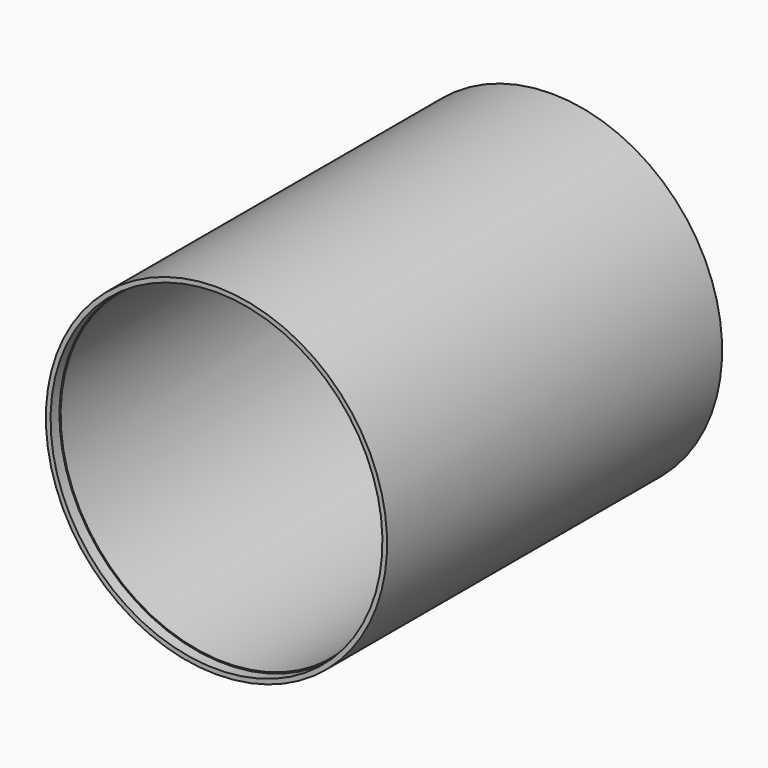
from build123d import *

# Parameters (mm, degrees)
F5_DEPTH = 25.4


with BuildPart() as f1:
    # F0 (on Right) → F1 (revolve)
    with BuildSketch(Plane.YZ):
        Polygon((149.225, 121.5898), (-149.225, 121.5898), (-149.225, 118.2624), (-141.3256, 118.2624), (-141.3256, 117.4115), (141.351, 117.4115), (141.351, 118.2624), (149.225, 118.2624), align=None)
    revolve(axis=Axis((0, 81.1550111453, 0), (0, 1, 0)))

    # F4 (on offset) → F5 (cut)
    with BuildSketch(Plane.YZ.offset(-121.6406)):
        with BuildLine():
            ThreePointArc((100.0486008096, 1.8658208001), (105.1557921179, 12.4658651187), (115.8155322063, 17.4472588862))
            ThreePointArc((115.8155322063, 17.4472588862), (101.0848732346, 16.5852473221), (100.0486008096, 1.8658208001))
        make_face()
        with BuildLine():
            ThreePointArc((100.0486008096, 1.8658208001), (112.5131336281, -1.9536165878), (120.1166, 8.636))
            ThreePointArc((120.1166, 8.636), (118.9839365556, 13.5384857808), (115.8155322063, 17.4472588862))
            ThreePointArc((115.8155322063, 17.4472588862), (105.1557921179, 12.4658651187), (100.0486008096, 1.8658208001))
        make_face()
        with BuildLine():
            ThreePointArc((129.4030845296, -12.8406181881), (121.4666692052, -9.9791730129), (117.6930202979, -17.5246438808))
            ThreePointArc((117.6930202979, -17.5246438808), (123.9839929938, -16.2724824845), (129.4030845296, -12.8406181881))
        make_face()
        with BuildLine():
            ThreePointArc((129.4030845296, -12.8406181881), (123.9839929938, -16.2724824845), (117.6930202979, -17.5246438808))
            ThreePointArc((117.6930202979, -17.5246438808), (124.6569942584, -22.1702589743), (130.175, -15.875))
            ThreePointArc((130.175, -15.875), (129.9789961311, -14.3094867875), (129.4030845296, -12.8406181881))
        make_face()
        with BuildLine():
            ThreePointArc((115.8155322063, 17.4472588862), (118.9839365556, 13.5384857808), (120.1166, 8.636))
            ThreePointArc((120.1166, 8.636), (112.5131336281, -1.9536165878), (100.0486008096, 1.8658208001))
            ThreePointArc((100.0486008096, 1.8658208001), (104.512376571, -11.7953834121), (117.6930202979, -17.5246438808))
            ThreePointArc((117.6930202979, -17.5246438808), (121.4666692052, -9.9791730129), (129.4030845296, -12.8406181881))
            ThreePointArc((129.4030845296, -12.8406181881), (133.5406821434, -7.0038941502), (135.001, 0))
            ThreePointArc((135.001, 0), (129.266455454, 12.9661966003), (115.8155322063, 17.4472588862))
        make_face()
    extrude(amount=F5_DEPTH, mode=Mode.SUBTRACT)


solid = f1.part
